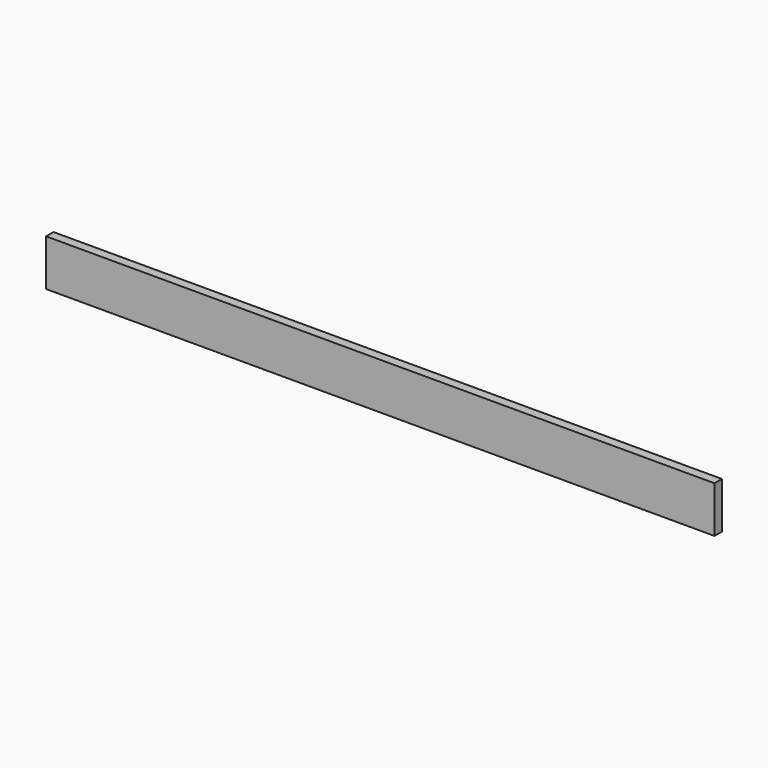
from build123d import *

# Parameters (mm, degrees)
SKETCH_W  = 50.8
SKETCH_H  = 254
PAD_DEPTH = 3657.6


with BuildPart() as part:
    # Sketch → Pad (new body)
    with BuildSketch(Plane.YZ):
        with Locations((25.4, 127)):
            Rectangle(SKETCH_W, SKETCH_H)
    extrude(amount=PAD_DEPTH)


solid = part.part
